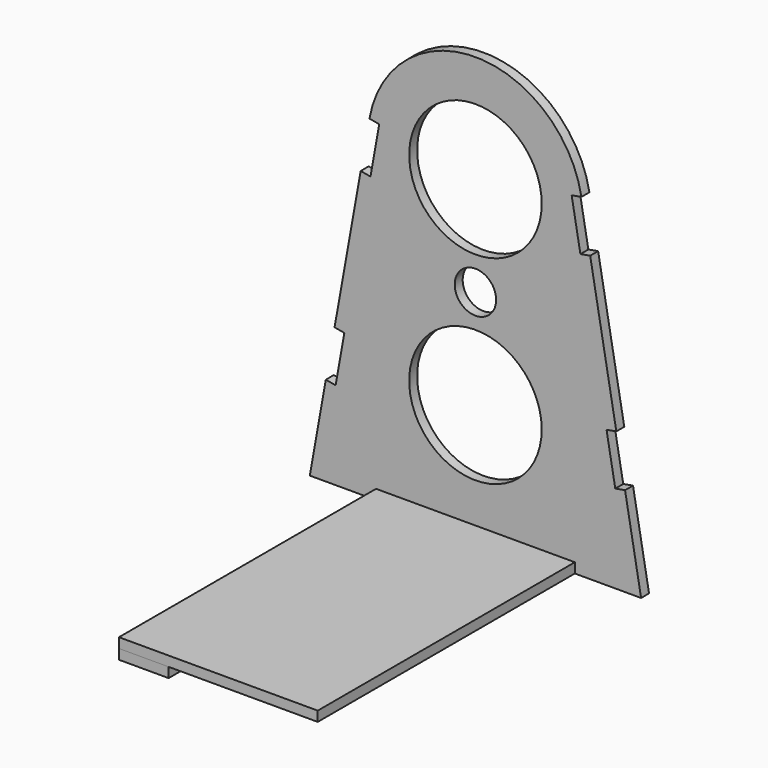
from build123d import *

# Parameters (mm, degrees)
F0_R     = 40
F0_R_2   = 12.5
F1_DEPTH = 6
F2_W     = 120
F2_H     = 200
F3_DEPTH = 6
F4_W     = 30
F4_H     = 200
F5_DEPTH = 6


with BuildPart() as f1:
    # F0 (on Front) → F1 (new body)
    with BuildSketch(Plane.XZ):
        with BuildLine():
            Line((-90.32026, -15.858494), (-100, -70))
            Line((-100, -70), (-60, -70))
            Line((-60, -70), (-60, -64))
            Line((-60, -64), (0, -64))
            Line((0, -64), (60, -64))
            Line((60, -64), (60, -70))
            Line((60, -70), (100, -70))
            Line((100, -70), (90.32026, -15.858494))
            Line((90.32026, -15.858494), (84.413914, -16.914466))
            Line((84.413914, -16.914466), (79.134056, 12.617264))
            Line((79.134056, 12.617264), (85.040402, 13.673236))
            Line((85.040402, 13.673236), (69.265274, 101.907962))
            Line((69.265274, 101.907962), (63.358928, 100.851991))
            Line((63.358928, 100.851991), (58.07907, 130.383721))
            Line((58.07907, 130.383721), (63.985416, 131.439693))
            ThreePointArc((63.985416, 131.439693), (0, 185), (-63.985416, 131.439693))
            Line((-63.985416, 131.439693), (-58.07907, 130.383721))
            Line((-58.07907, 130.383721), (-63.358928, 100.851991))
            Line((-63.358928, 100.851991), (-69.265274, 101.907962))
            Line((-69.265274, 101.907962), (-85.040402, 13.673236))
            Line((-85.040402, 13.673236), (-79.134056, 12.617264))
            Line((-79.134056, 12.617264), (-84.413914, -16.914466))
            Line((-84.413914, -16.914466), (-90.32026, -15.858494))
        make_face()
        Circle(F0_R, mode=Mode.SUBTRACT)
        with Locations((0, 60)):
            Circle(F0_R_2, mode=Mode.SUBTRACT)
        with Locations((0, 120)):
            Circle(F0_R, mode=Mode.SUBTRACT)
    extrude(amount=F1_DEPTH)


with BuildPart() as f3:
    # F2 (on face) → F3 (new body)
    with BuildSketch(Plane(origin=(0, 0, -64), x_dir=(1, 0, 0), z_dir=(0, 0, -1))):
        with Locations((0, 100)):
            Rectangle(F2_W, F2_H)
    extrude(amount=F3_DEPTH)


with BuildPart() as f5:
    # F4 (on face) → F5 (new body)
    with BuildSketch(Plane(origin=(0, 0, -70), x_dir=(1, 0, 0), z_dir=(0, 0, -1))):
        with Locations((-45, 100)):
            Rectangle(F4_W, F4_H)
    extrude(amount=F5_DEPTH)


solid = Compound([f1.part, f3.part, f5.part])
